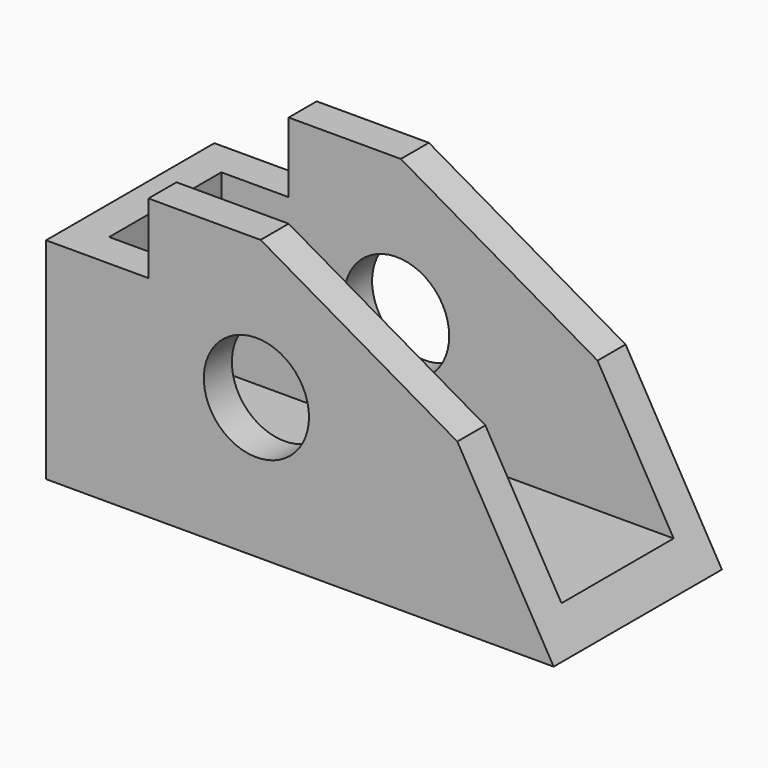
from build123d import *

# Parameters (mm, degrees)
F0_R     = 9.525
F1_DEPTH = 38.1
F2_W     = 12.192
F2_H     = 25.4
F2_W_2   = 20.32
F2_W_3   = 53.086
F3_DEPTH = 44.45


with BuildPart() as f1:
    # F0 (on Front) → F1 (new body)
    with BuildSketch(Plane.XZ):
        Polygon((0, 38.1), (0, 0), (91.948, 0), (74.4969094878, 30.2261754147), (38.862, 50.8), (18.542, 50.8), (18.542, 38.1), align=None)
        with Locations((38.1, 25.4)):
            Circle(F0_R, mode=Mode.SUBTRACT)
    extrude(amount=F1_DEPTH)

    # F2 (on face) → F3 (cut)
    with BuildSketch(Plane.XY.offset(50.8)):
        with Locations((12.446, -19.05)):
            Rectangle(F2_W, F2_H)
        with Locations((28.702, -19.05)):
            Rectangle(F2_W_2, F2_H)
        with Locations((65.405, -19.05)):
            Rectangle(F2_W_3, F2_H)
    extrude(amount=-F3_DEPTH, mode=Mode.SUBTRACT)


solid = f1.part
